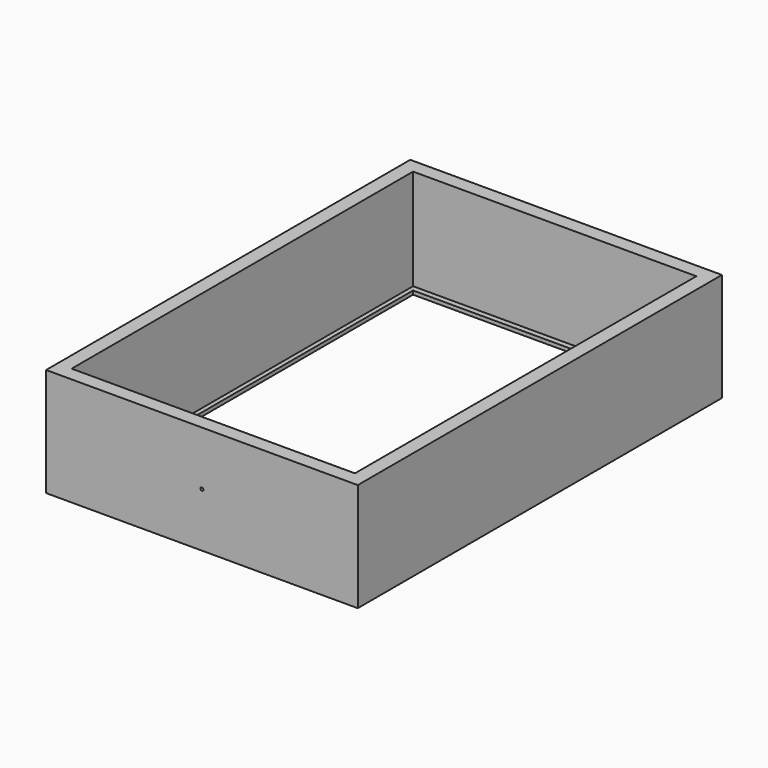
from build123d import *

# Parameters (mm, degrees)
F0_W      = 417
F0_H      = 145
F1_DEPTH  = 19
F3_DEPTH  = 590
F4_W      = 379
F4_H      = 5
F5_DEPTH  = 8
F6_W      = 19
F6_H      = 145
F7_DEPTH  = 379
F9_DEPTH  = 8
F11_DEPTH = 8
F13_DEPTH = 8
F14_R     = 2
F15_DEPTH = 19


with BuildPart() as f1:
    # F0 (on Front) → F1 (new body)
    with BuildSketch(Plane.XZ):
        with Locations((-15.645568, 27.064685)):
            Rectangle(F0_W, F0_H)
    extrude(amount=F1_DEPTH)

    # F2 (on face) → F3 (join)
    with BuildSketch(Plane.XZ.offset(19)):
        Polygon((-224.145568, 99.564685), (-224.145568, -45.435315), (-205.145568, -45.435315), (-205.145568, -40.435315), (-205.145568, -35.435315), (-205.145568, 99.564685), align=None)
        Polygon((173.854432, -40.435315), (173.854432, -45.435315), (192.854432, -45.435315), (192.854432, 99.564685), (173.854432, 99.564685), (173.854432, -35.435315), align=None)
    extrude(amount=F3_DEPTH)

    # F4 (on face) → F5 (cut)
    with BuildSketch(Plane.XZ.offset(19)):
        with Locations((-15.645568, -37.935315)):
            Rectangle(F4_W, F4_H)
    extrude(amount=-F5_DEPTH, mode=Mode.SUBTRACT)

    # F6 (on face) → F7 (join)
    with BuildSketch(Plane.YZ.offset(-205.145568)):
        with Locations((-599.5, 27.064685)):
            Rectangle(F6_W, F6_H)
    extrude(amount=F7_DEPTH)

    # F8 (on face) → F9 (cut)
    with BuildSketch(Plane(origin=(173.854432, 0, 0), x_dir=(0, -1, 0), z_dir=(-1, 0, 0))):
        Polygon((19, -35.435315), (11, -35.435315), (11, -40.435315), (19, -40.435315), (590, -40.435315), (590, -35.435315), align=None)
    extrude(amount=-F9_DEPTH, mode=Mode.SUBTRACT)

    # F10 (on face) → F11 (cut)
    with BuildSketch(Plane(origin=(0, -590, 0), x_dir=(-1, 0, 0), z_dir=(0, 1, 0))):
        Polygon((-173.854432, -35.435315), (-181.854432, -35.435315), (-181.854432, -40.435315), (-173.854432, -40.435315), (205.145568, -40.435315), (205.145568, -35.435315), align=None)
    extrude(amount=-F11_DEPTH, mode=Mode.SUBTRACT)

    # F12 (on face) → F13 (cut)
    with BuildSketch(Plane.YZ.offset(-205.145568)):
        Polygon((-590, -35.435315), (-598, -35.435315), (-598, -40.435315), (-590, -40.435315), (-19, -40.435315), (-11, -40.435315), (-11, -35.435315), (-19, -35.435315), align=None)
    extrude(amount=-F13_DEPTH, mode=Mode.SUBTRACT)

    # F14 (on face) → F15 (cut)
    with BuildSketch(Plane.XZ.offset(609)):
        with Locations((-15.645568, 27.064685)):
            Circle(F14_R)
    extrude(amount=-F15_DEPTH, mode=Mode.SUBTRACT)


solid = f1.part
